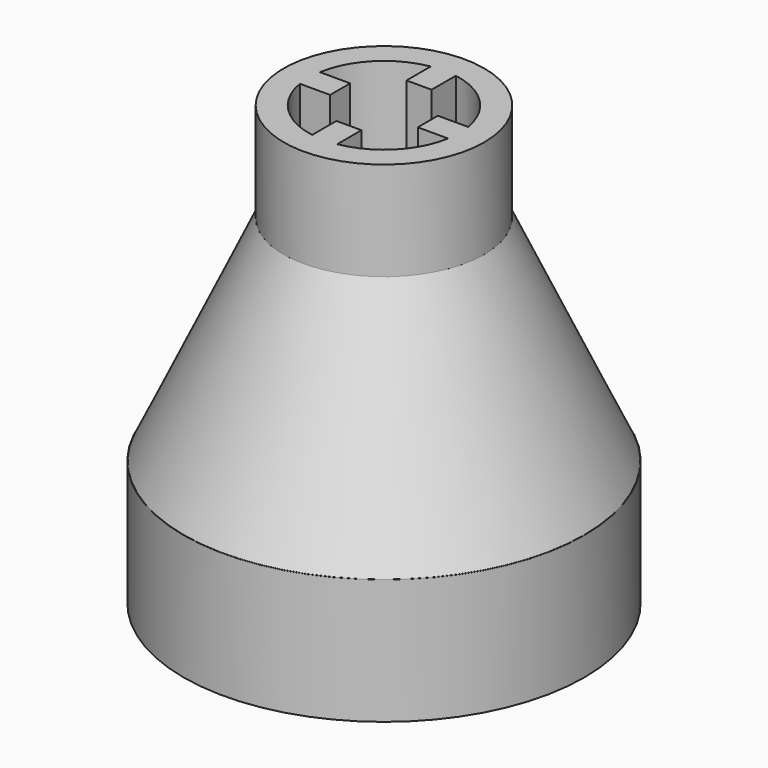
from build123d import *

# Parameters (mm, degrees)
SKETCH005_R     = 8
PAD003_DEPTH    = 5
SKETCH006_R     = 4
PAD004_DEPTH    = 12.5
SKETCH008_R     = 7
SKETCH008_R_2   = 4
POCKET002_DEPTH = 3
POCKET003_DEPTH = 15.5
CHAMFER_ANGLE   = 65
CHAMFER_SIZE    = 3.99


with BuildPart() as part:
    # Sketch005 → Pad003 (new body)
    with BuildSketch(Plane.XY):
        Circle(SKETCH005_R)
    extrude(amount=PAD003_DEPTH)

    # Sketch006 (on Face3 of Pad003) → Pad004 (join)
    with BuildSketch(Plane.XY.offset(5)):
        Circle(SKETCH006_R)
    extrude(amount=PAD004_DEPTH)

    # Sketch008 (on Face2 of Pad004) → Pocket002 (cut)
    with BuildSketch(Plane(origin=(0, 0, 0), x_dir=(1, 0, 0), z_dir=(0, 0, -1))):
        Circle(SKETCH008_R)
        Circle(SKETCH008_R_2, mode=Mode.SUBTRACT)
    extrude(amount=-POCKET002_DEPTH, mode=Mode.SUBTRACT)

    # Sketch007 (on Face5 of Pad004) → Pocket003 (cut)
    with BuildSketch(Plane.XY.offset(17.5)):
        with BuildLine():
            ThreePointArc((-0.5, 2.95804), (-2.12132, 2.12132), (-2.95804, 0.5))
            Line((-2.95804, 0.5), (-1.75, 0.5))
            Line((-1.75, 0.5), (-1.75, -0.5))
            Line((-1.75, -0.5), (-2.95804, -0.5))
            ThreePointArc((-2.95804, -0.5), (-2.12132, -2.12132), (-0.5, -2.95804))
            Line((-0.5, -2.95804), (-0.5, -1.75))
            Line((-0.5, -1.75), (0.5, -1.75))
            Line((0.5, -1.75), (0.5, -2.95804))
            ThreePointArc((0.5, -2.95804), (2.12132, -2.12132), (2.95804, -0.5))
            Line((2.95804, -0.5), (1.75, -0.5))
            Line((1.75, -0.5), (1.75, 0.5))
            Line((1.75, 0.5), (2.95804, 0.5))
            ThreePointArc((2.95804, 0.5), (2.12132, 2.12132), (0.5, 2.95804))
            Line((0.5, 2.95804), (0.5, 1.75))
            Line((0.5, 1.75), (-0.5, 1.75))
            Line((-0.5, 1.75), (-0.5, 2.95804))
        make_face()
    extrude(amount=-POCKET003_DEPTH, mode=Mode.SUBTRACT)

    # Chamfer
    chamfer_edges = [part.edges().sort_by_distance(p)[0] for p in [
        (-4, 0, 5),
    ]]
    chamfer_side = part.faces().sort_by_distance((-7.773726, 0, 5))[0]
    chamfer(chamfer_edges, length=CHAMFER_SIZE, angle=CHAMFER_ANGLE, reference=chamfer_side)


solid = part.part
